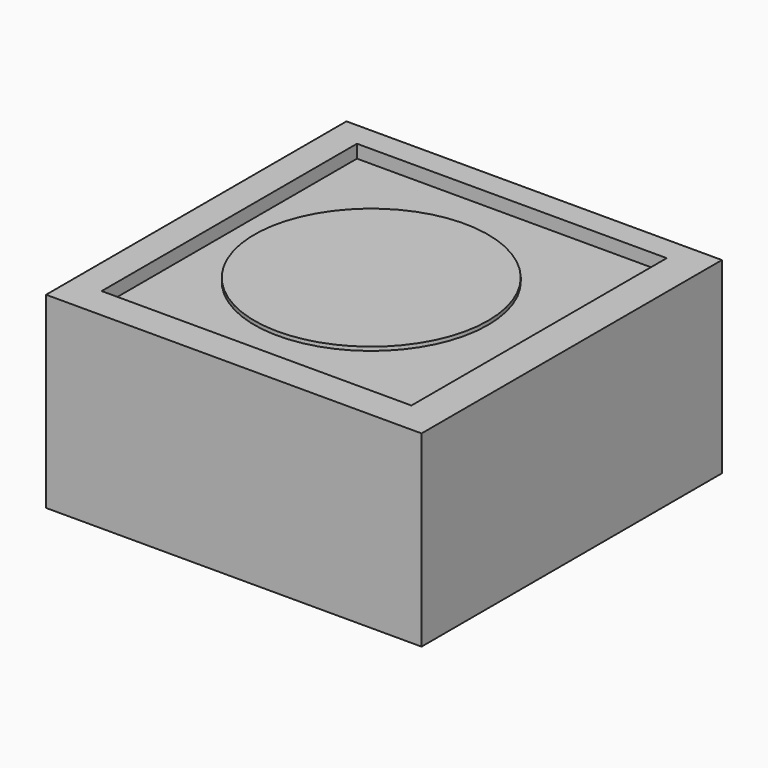
from build123d import *

# Parameters (mm, degrees)
F0_W     = 50.8
F0_H     = 50.8
F0_W_2   = 41.91
F0_H_2   = 43.180001
F1_DEPTH = 25.4
F0_R     = 15.799126
F2_DEPTH = 23.622
F3_DEPTH = 24.13


with BuildPart() as f1:
    # F0 (on Top) → F1 (new body)
    with BuildSketch(Plane.XY):
        with Locations((-20.574001, 6.603999)):
            Rectangle(F0_W, F0_H)
        with Locations((-20.955, 7.111999)):
            Rectangle(F0_W_2, F0_H_2, mode=Mode.SUBTRACT)
    extrude(amount=F1_DEPTH)

    # F0 (on Top) → F2 (join)
    with BuildSketch(Plane.XY):
        with Locations((-20.574001, 6.603999)):
            Rectangle(F0_W, F0_H)
        with Locations((-20.955, 7.111999)):
            Rectangle(F0_W_2, F0_H_2, mode=Mode.SUBTRACT)
        with Locations((-20.955, 7.111999)):
            Rectangle(F0_W_2, F0_H_2)
        with Locations((-23.114, 7.62)):
            Circle(F0_R, mode=Mode.SUBTRACT)
    extrude(amount=F2_DEPTH)

    # F0 (on Top) → F3 (join)
    with BuildSketch(Plane.XY):
        with Locations((-23.114, 7.62)):
            Circle(F0_R)
    extrude(amount=F3_DEPTH)


solid = f1.part
